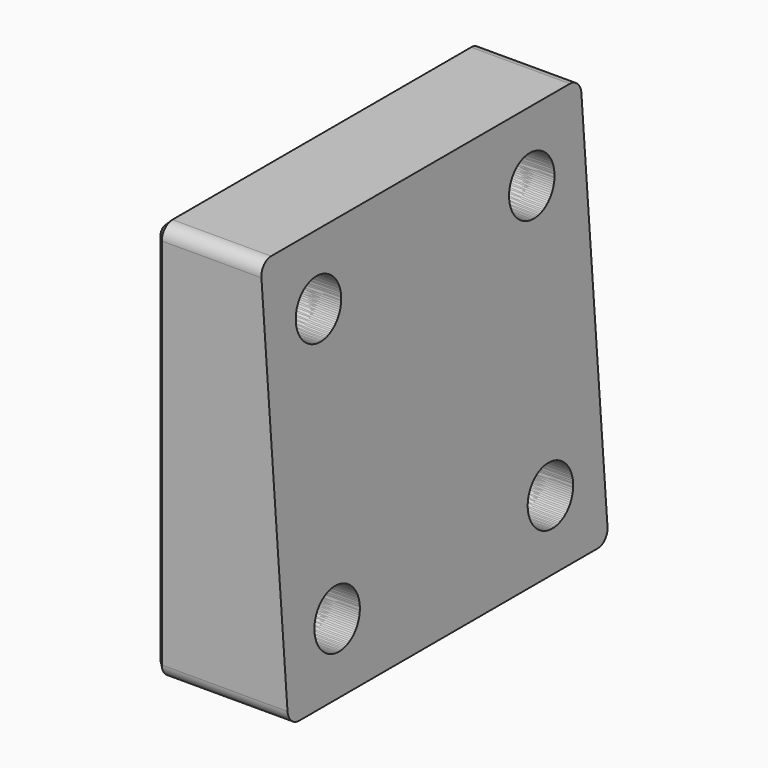
from build123d import *

# Parameters (mm, degrees)
SKETCH_W         = 30
SKETCH_H         = 30
SKETCH_R         = 4
PAD_DEPTH        = 10
POCKET_DEPTH     = 30.001
HOLE_D           = 4.25
HOLE_DEPTH       = 25
HOLE_CBORE_D     = 7.25
HOLE_CBORE_DEPTH = 4
FILLET_R         = 1
CHAMFER_SIZE     = 0.5
SKETCH005_W      = 30
SKETCH005_H      = 30
PAD002_DEPTH     = 10
POCKET002_DEPTH  = 30.001
POCKET003_DEPTH  = 3.2
SKETCH008_R      = 2.125
HOLE001_DEPTH    = 10.001
FILLET001_R      = 1
CHAMFER002_SIZE  = 0.5


with BuildPart() as inner_guard:
    # Sketch → Pad (new body)
    with BuildSketch(Plane.YZ):
        Rectangle(SKETCH_W, SKETCH_H)
        Circle(SKETCH_R, mode=Mode.SUBTRACT)
    extrude(amount=PAD_DEPTH)

    # Sketch001 (on Face1 of Pad) → Pocket (cut, through all)
    with BuildSketch(Plane(origin=(0, -15, 0), x_dir=(0, 0, -1), z_dir=(0, -1, 0))):
        Polygon((25, 10.699268), (-25, 7.202928), (-25, 10.699268), align=None)
    extrude(amount=-POCKET_DEPTH, mode=Mode.SUBTRACT)

    # Hole
    with Locations(Plane(origin=(0, 0, 0), x_dir=(0, 1, 0), z_dir=(-1, 0, 0))):
        with Locations((10, -10), (-10, -10), (-10, 10), (10, 10)):
            CounterBoreHole(HOLE_D / 2, HOLE_CBORE_D / 2, HOLE_CBORE_DEPTH, depth=HOLE_DEPTH)

    # Fillet
    fillet_edges = [inner_guard.edges().sort_by_distance(p)[0] for p in [
        (3.951098, -15, 15),
        (5, -15, -15),
        (3.951098, 15, 15),
        (5, 15, -15),
    ]]
    fillet(fillet_edges, radius=FILLET_R)

    # Chamfer
    chamfer_edges = [inner_guard.edges().sort_by_distance(p)[0] for p in [
        (0, 15, 0),
        (0, 0, -15),
        (0, 0, 15),
        (0, -15, 0),
        (0, 13.625, -10),
        (0, 13.625, 10),
        (0, -6.375, 10),
        (0, -6.375, -10),
        (0, -4, 0),
    ]]
    chamfer(chamfer_edges, length=CHAMFER_SIZE)


with BuildPart() as obj1:
    # Sketch005 → Pad002 (new body)
    with BuildSketch(Plane.YZ):
        Rectangle(SKETCH005_W, SKETCH005_H)
    extrude(amount=PAD002_DEPTH)

    # Sketch006 (on Face1 of Pad002) → Pocket002 (cut, through all)
    with BuildSketch(Plane(origin=(0, -15, 0), x_dir=(0, 0, -1), z_dir=(0, -1, 0))):
        Polygon((25, 10.699268), (-25, 7.202928), (-25, 10.699268), align=None)
    extrude(amount=-POCKET002_DEPTH, mode=Mode.SUBTRACT)

    # Sketch007 → Pocket003 (cut)
    with BuildSketch(Plane.YZ):
        Polygon((-12.092895, 6.375), (-7.907105, 6.375), (-5.814211, 10), (-7.907105, 13.625), (-12.092895, 13.625), (-14.185789, 10), align=None)
        Polygon((7.907105, 6.375), (12.092895, 6.375), (14.185789, 10), (12.092895, 13.625), (7.907105, 13.625), (5.814211, 10), align=None)
        Polygon((7.907105, -13.625), (12.092895, -13.625), (14.185789, -10), (12.092895, -6.375), (7.907105, -6.375), (5.814211, -10), align=None)
        Polygon((-12.092895, -13.625), (-7.907105, -13.625), (-5.814211, -10), (-7.907105, -6.375), (-12.092895, -6.375), (-14.185789, -10), align=None)
    extrude(amount=POCKET003_DEPTH, mode=Mode.SUBTRACT)

    # Sketch008 → Hole001 (cut, through all)
    with BuildSketch(Plane.YZ):
        with Locations((10, 10)):
            Circle(SKETCH008_R)
        with Locations((-10, 10)):
            Circle(SKETCH008_R)
        with Locations((10, -10)):
            Circle(SKETCH008_R)
        with Locations((-10, -10)):
            Circle(SKETCH008_R)
    extrude(amount=HOLE001_DEPTH, mode=Mode.SUBTRACT)

    # Fillet001
    fillet001_edges = [obj1.edges().sort_by_distance(p)[0] for p in [
        (3.951098, -15, 15),
        (3.951098, 15, 15),
        (5, -15, -15),
        (5, 15, -15),
    ]]
    fillet(fillet001_edges, radius=FILLET001_R)

    # Chamfer002
    chamfer002_edges = [obj1.edges().sort_by_distance(p)[0] for p in [
        (0, 0, 15),
        (0, -15, 0),
        (0, 0, -15),
        (0, 15, 0),
    ]]
    chamfer(chamfer002_edges, length=CHAMFER002_SIZE)


solid = Compound([inner_guard.part, obj1.part])
